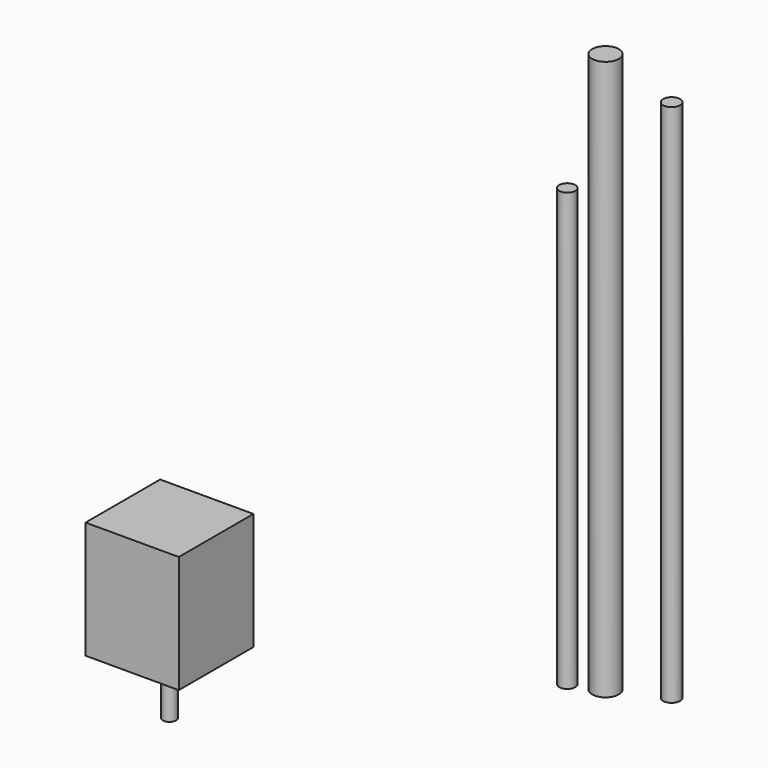
from build123d import *

# Parameters (mm, degrees)
F0_R     = 3
F1_DEPTH = 164
F0_R_2   = 5
F2_DEPTH = 210
F0_R_3   = 3.175
F3_DEPTH = 196.85
F0_W     = 35
F0_H     = 35
F0_R_4   = 1.5
F0_R_5   = 11
F0_R_6   = 2.5
F4_DEPTH = 44
F5_DEPTH = 2
F6_DEPTH = 10
F7_DEPTH = 22


with BuildPart() as f1:
    # F0 (on Top) → F1 (new body)
    with BuildSketch(Plane.XY):
        with Locations((-57.471775, 27.66481)):
            Circle(F0_R)
    extrude(amount=F1_DEPTH)


with BuildPart() as f2:
    # F0 (on Top) → F2 (new body)
    with BuildSketch(Plane.XY):
        with Locations((-46.636587, 32.066606)):
            Circle(F0_R_2)
    extrude(amount=F2_DEPTH)


with BuildPart() as f3:
    # F0 (on Top) → F3 (new body)
    with BuildSketch(Plane.XY):
        with Locations((-28.182909, 40.023697)):
            Circle(F0_R_3)
    extrude(amount=F3_DEPTH)


with BuildPart() as f4:
    # F0 (on Top) → F4 (new body)
    with BuildSketch(Plane.XY):
        with Locations((-161.544724, -28.86765)):
            Rectangle(F0_W, F0_H)
        with Locations((-173.197865, -41.86765)):
            Circle(F0_R_4, mode=Mode.SUBTRACT)
        with Locations((-149.891582, -41.86765)):
            Circle(F0_R_4, mode=Mode.SUBTRACT)
        with Locations((-161.544724, -28.86765)):
            Circle(F0_R_5, mode=Mode.SUBTRACT)
        with Locations((-173.197865, -15.86765)):
            Circle(F0_R_4, mode=Mode.SUBTRACT)
        with Locations((-149.891582, -15.86765)):
            Circle(F0_R_4, mode=Mode.SUBTRACT)
        with Locations((-161.544724, -28.86765)):
            Circle(F0_R_5)
        with Locations((-161.544724, -28.86765)):
            Circle(F0_R_6, mode=Mode.SUBTRACT)
        with Locations((-161.544724, -28.86765)):
            Circle(F0_R_6)
        with Locations((-149.891582, -41.86765)):
            Circle(F0_R_4)
        with Locations((-173.197865, -41.86765)):
            Circle(F0_R_4)
        with Locations((-173.197865, -15.86765)):
            Circle(F0_R_4)
        with Locations((-149.891582, -15.86765)):
            Circle(F0_R_4)
    extrude(amount=F4_DEPTH)

    # F0 (on Top) → F5 (join)
    with BuildSketch(Plane.XY):
        with Locations((-161.544724, -28.86765)):
            Circle(F0_R_5)
        with Locations((-161.544724, -28.86765)):
            Circle(F0_R_6, mode=Mode.SUBTRACT)
        with Locations((-161.544724, -28.86765)):
            Circle(F0_R_6)
    extrude(amount=-F5_DEPTH)

    # F0 (on Top) → F6 (cut)
    with BuildSketch(Plane.XY):
        with Locations((-173.197865, -41.86765)):
            Circle(F0_R_4)
        with Locations((-149.891582, -41.86765)):
            Circle(F0_R_4)
        with Locations((-149.891582, -15.86765)):
            Circle(F0_R_4)
        with Locations((-173.197865, -15.86765)):
            Circle(F0_R_4)
    extrude(amount=F6_DEPTH, mode=Mode.SUBTRACT)

    # F0 (on Top) → F7 (join)
    with BuildSketch(Plane.XY):
        with Locations((-161.544724, -28.86765)):
            Circle(F0_R_6)
    extrude(amount=-F7_DEPTH)


solid = Compound([f1.part, f2.part, f3.part, f4.part])
